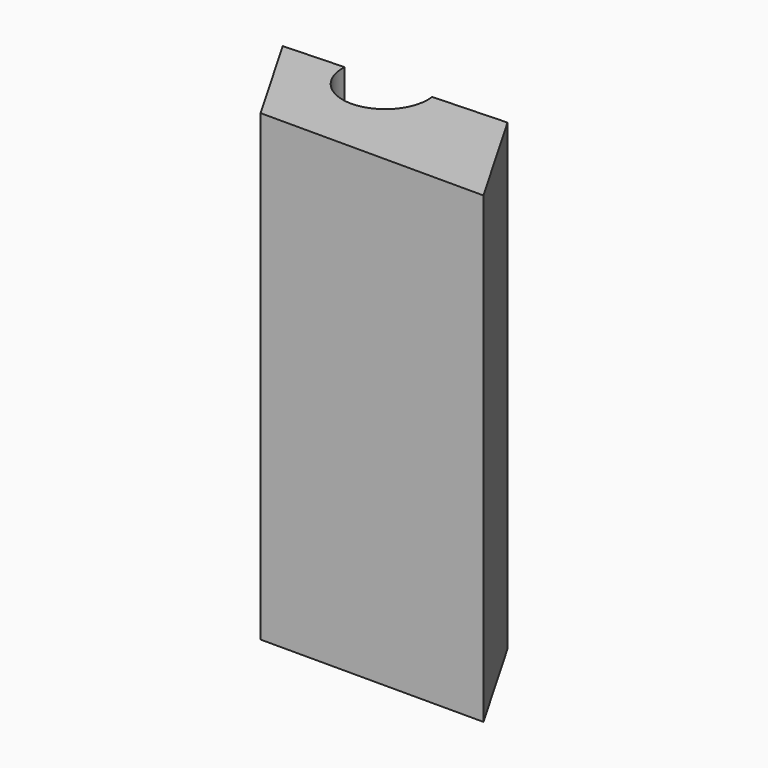
from build123d import *

# Parameters (mm, degrees)
F1_DEPTH = 127


with BuildPart() as f1:
    # F0 (on Top) → F1 (new body)
    with BuildSketch(Plane.XY):
        with BuildLine():
            Line((-61.079588, 0), (0, 0))
            Line((0, 0), (-17.086972, 29.594812))
            Line((-17.086972, 29.594812), (-37.100383, 28.799639))
            ThreePointArc((-37.100383, 28.799639), (-37.020352, 28.013477), (-36.993634, 27.223703))
            ThreePointArc((-36.993634, 27.223703), (-49.006091, 15.542063), (-60.347805, 27.875973))
            Line((-60.347805, 27.875973), (-76.764559, 27.223703))
            Line((-76.764559, 27.223703), (-61.079588, 0))
        make_face()
    extrude(amount=F1_DEPTH)


solid = f1.part
